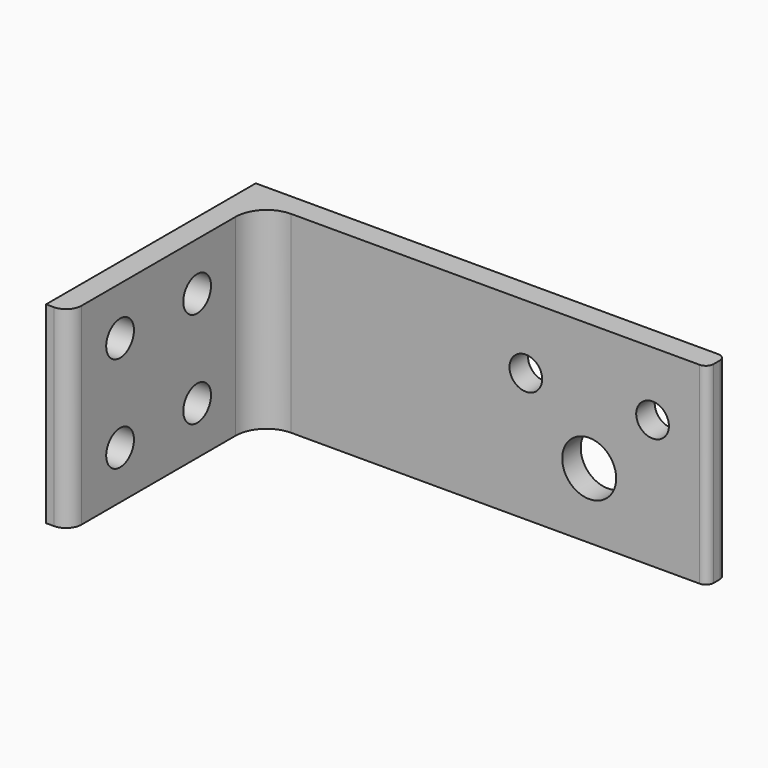
from build123d import *

# Parameters (mm, degrees)
F1_DEPTH = 25
F2_R     = 2.25
F3_DEPTH = 25
F4_R     = 3.5
F4_R_2   = 2.12
F5_DEPTH = 25


with BuildPart() as f1:
    # F0 (on Top) → F1 (new body)
    with BuildSketch(Plane.XY):
        with BuildLine():
            ThreePointArc((-2, -31), (-0.585786, -30.414214), (0, -29))
            Line((0, -29), (0, -4))
            ThreePointArc((0, -4), (1.171573, -1.171573), (4, 0))
            Line((4, 0), (57, 0))
            ThreePointArc((57, 0), (57.707107, 0.292893), (58, 1))
            Line((58, 1), (58, 2))
            ThreePointArc((58, 2), (57.707107, 2.707107), (57, 3))
            Line((57, 3), (-3, 3))
            Line((-3, 3), (-3, -31))
            Line((-3, -31), (-2, -31))
        make_face()
    extrude(amount=F1_DEPTH)

    # F2 (on face) → F3 (cut)
    with BuildSketch(Plane.YZ):
        with Locations((-22.75, 18.75)):
            Circle(F2_R)
        with Locations((-10.25, 18.75)):
            Circle(F2_R)
        with Locations((-10.25, 6.25)):
            Circle(F2_R)
        with Locations((-22.75, 6.25)):
            Circle(F2_R)
    extrude(amount=-F3_DEPTH, mode=Mode.SUBTRACT)

    # F4 (on face) → F5 (cut)
    with BuildSketch(Plane.XZ):
        with Locations((42.66, 8.5)):
            Circle(F4_R)
        with Locations((50.88, 16.71316)):
            Circle(F4_R_2)
        with Locations((34.44, 16.71316)):
            Circle(F4_R_2)
    extrude(amount=-F5_DEPTH, mode=Mode.SUBTRACT)


solid = f1.part
